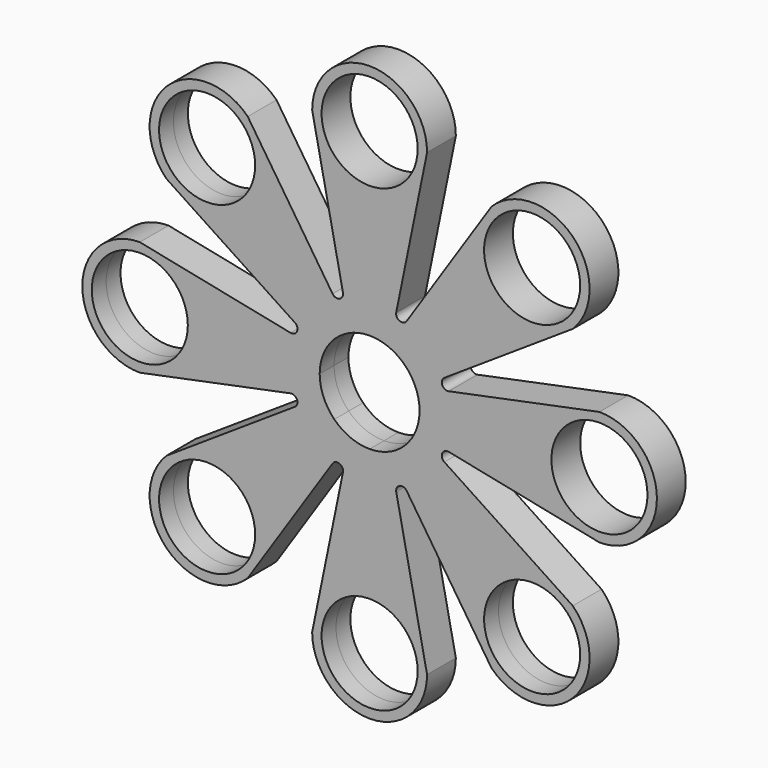
from build123d import *

# Parameters (mm, degrees)
F0_R     = 10.6172
F1_DEPTH = 3.9751
F2_R     = 1.27


with BuildPart() as f1:
    # F0 (on Front) → F1 (new body, symmetric)
    with BuildSketch(Plane.XZ):
        with BuildLine():
            Line((11.0363, -4.5713851384), (11.0363, 0))
            ThreePointArc((11.0363, 0), (10.1962116818, -4.2234091715), (7.8038425587, -7.8038425798))
            Line((7.8038425587, -7.8038425798), (11.0363, -4.5713851384))
        make_face()
        with BuildLine():
            ThreePointArc((7.8038425896, 7.8038425488), (10.1962116902, 4.2234091513), (11.0363, 0))
            Line((11.0363, 0), (11.0363, 4.5713851384))
            Line((11.0363, 4.5713851384), (7.8038425896, 7.8038425488))
        make_face()
        with BuildLine():
            Line((11.0363, 4.5713851384), (11.0363, 0))
            Line((11.0363, 0), (11.0363, -4.5713851384))
            Line((11.0363, -4.5713851384), (50.8, -12.7))
            ThreePointArc((50.8, -12.7), (63.5, 0), (50.8, 12.7))
            Line((50.8, 12.7), (11.0363, 4.5713851384))
        make_face()
        with Locations((50.8, 0)):
            Circle(F0_R, mode=Mode.SUBTRACT)
        with BuildLine():
            ThreePointArc((0, 11.0363), (4.2234091779, 10.1962116791), (7.8038425896, 7.8038425488))
            Line((7.8038425896, 7.8038425488), (4.5713851384, 11.0363))
            Line((4.5713851384, 11.0363), (0, 11.0363))
        make_face()
        with BuildLine():
            Line((4.5713851384, 11.0363), (7.8038425896, 7.8038425488))
            Line((7.8038425896, 7.8038425488), (11.0363, 4.5713851384))
            Line((11.0363, 4.5713851384), (44.9012806053, 26.9407683632))
            ThreePointArc((44.9012806053, 26.9407683632), (44.9012806053, 44.9012806053), (26.9407683632, 44.9012806053))
            Line((26.9407683632, 44.9012806053), (4.5713851384, 11.0363))
        make_face()
        with Locations((35.9210244843, 35.9210244843)):
            Circle(F0_R, mode=Mode.SUBTRACT)
        with BuildLine():
            Line((4.5713851384, -11.0363), (7.8038425587, -7.8038425798))
            ThreePointArc((7.8038425587, -7.8038425798), (4.2234091577, -10.1962116875), (0, -11.0363))
            Line((0, -11.0363), (4.5713851384, -11.0363))
        make_face()
        with BuildLine():
            Line((11.0363, -4.5713851384), (7.8038425587, -7.8038425798))
            Line((7.8038425587, -7.8038425798), (4.5713851384, -11.0363))
            Line((4.5713851384, -11.0363), (26.9407683632, -44.9012806053))
            ThreePointArc((26.9407683632, -44.9012806053), (44.9012806053, -44.9012806053), (44.9012806053, -26.9407683632))
            Line((44.9012806053, -26.9407683632), (11.0363, -4.5713851384))
        make_face()
        with Locations((35.9210244843, -35.9210244843)):
            Circle(F0_R, mode=Mode.SUBTRACT)
        with BuildLine():
            ThreePointArc((-7.8038425634, 7.803842575), (-4.2234091608, 10.1962116862), (0, 11.0363))
            Line((0, 11.0363), (-4.5713851384, 11.0363))
            Line((-4.5713851384, 11.0363), (-7.8038425634, 7.803842575))
        make_face()
        with BuildLine():
            Line((-4.5713851384, 11.0363), (0, 11.0363))
            Line((0, 11.0363), (4.5713851384, 11.0363))
            Line((4.5713851384, 11.0363), (12.7, 50.8))
            ThreePointArc((12.7, 50.8), (0, 63.5), (-12.7, 50.8))
            Line((-12.7, 50.8), (-4.5713851384, 11.0363))
        make_face()
        with Locations((0, 50.8)):
            Circle(F0_R, mode=Mode.SUBTRACT)
        with BuildLine():
            Line((-4.5713851384, -11.0363), (0, -11.0363))
            ThreePointArc((0, -11.0363), (-4.2234091646, -10.1962116847), (-7.8038425692, -7.8038425692))
            Line((-7.8038425692, -7.8038425692), (-4.5713851384, -11.0363))
        make_face()
        with BuildLine():
            Line((4.5713851384, -11.0363), (0, -11.0363))
            Line((0, -11.0363), (-4.5713851384, -11.0363))
            Line((-4.5713851384, -11.0363), (-12.7, -50.8))
            ThreePointArc((-12.7, -50.8), (0, -63.5), (12.7, -50.8))
            Line((12.7, -50.8), (4.5713851384, -11.0363))
        make_face()
        with Locations((0, -50.8)):
            Circle(F0_R, mode=Mode.SUBTRACT)
        with BuildLine():
            ThreePointArc((-11.0363, 0), (-10.1962116831, 4.2234091684), (-7.8038425634, 7.803842575))
            Line((-7.8038425634, 7.803842575), (-11.0363, 4.5713851384))
            Line((-11.0363, 4.5713851384), (-11.0363, 0))
        make_face()
        with BuildLine():
            Line((-11.0363, 4.5713851384), (-7.8038425634, 7.803842575))
            Line((-7.8038425634, 7.803842575), (-4.5713851384, 11.0363))
            Line((-4.5713851384, 11.0363), (-26.9407683632, 44.9012806053))
            ThreePointArc((-26.9407683632, 44.9012806053), (-44.9012806053, 44.9012806053), (-44.9012806053, 26.9407683632))
            Line((-44.9012806053, 26.9407683632), (-11.0363, 4.5713851384))
        make_face()
        with Locations((-35.9210244843, 35.9210244843)):
            Circle(F0_R, mode=Mode.SUBTRACT)
        with BuildLine():
            Line((-11.0363, -4.5713851384), (-7.8038425692, -7.8038425692))
            ThreePointArc((-7.8038425692, -7.8038425692), (-10.1962116847, -4.2234091646), (-11.0363, 0))
            Line((-11.0363, 0), (-11.0363, -4.5713851384))
        make_face()
        with BuildLine():
            Line((-4.5713851384, -11.0363), (-7.8038425692, -7.8038425692))
            Line((-7.8038425692, -7.8038425692), (-11.0363, -4.5713851384))
            Line((-11.0363, -4.5713851384), (-44.9012806053, -26.9407683632))
            ThreePointArc((-44.9012806053, -26.9407683632), (-44.9012806053, -44.9012806053), (-26.9407683632, -44.9012806053))
            Line((-26.9407683632, -44.9012806053), (-4.5713851384, -11.0363))
        make_face()
        with Locations((-35.9210244843, -35.9210244843)):
            Circle(F0_R, mode=Mode.SUBTRACT)
        with BuildLine():
            Line((-11.0363, -4.5713851384), (-11.0363, 0))
            Line((-11.0363, 0), (-11.0363, 4.5713851384))
            Line((-11.0363, 4.5713851384), (-50.8, 12.7))
            ThreePointArc((-50.8, 12.7), (-63.5, 0), (-50.8, -12.7))
            Line((-50.8, -12.7), (-11.0363, -4.5713851384))
        make_face()
        with Locations((-50.8, 0)):
            Circle(F0_R, mode=Mode.SUBTRACT)
    extrude(amount=F1_DEPTH, both=True)

    # F2
    f2_edges = [f1.edges().sort_by_distance(p)[0] for p in [
        (4.571385, 0, 11.0363),
        (-4.571385, 0, 11.0363),
        (-11.0363, 0, 4.571385),
        (-11.0363, 0, -4.571385),
        (-4.571385, 0, -11.0363),
        (4.571385, 0, -11.0363),
        (11.0363, 0, -4.571385),
        (11.0363, 0, 4.571385),
    ]]
    fillet(f2_edges, radius=F2_R)


solid = f1.part
